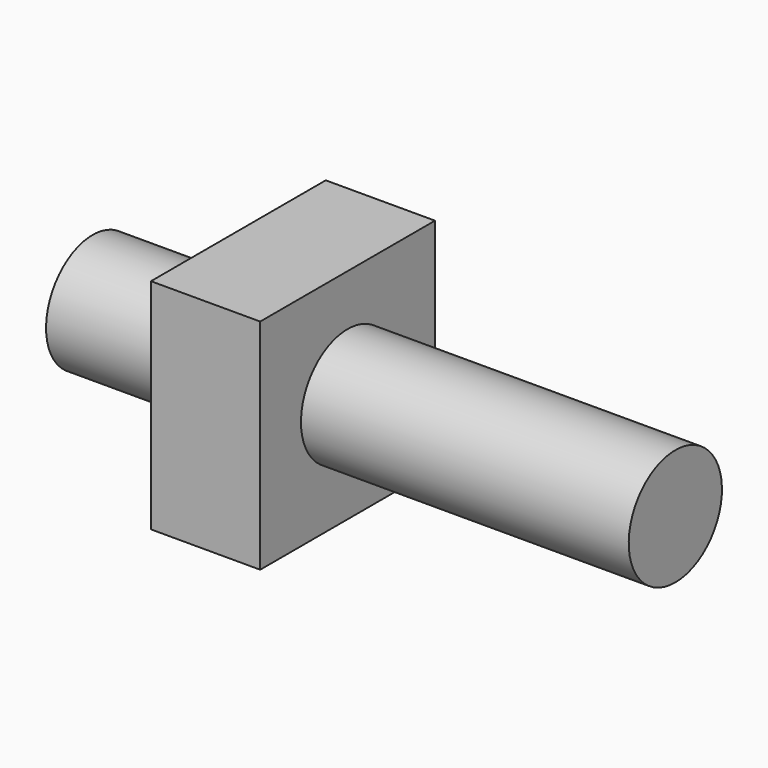
from build123d import *

# Parameters (mm, degrees)
BOX001_W          = 3
BOX001_H          = 6
BOX001_DEPTH      = 6
CYLINDER001_R     = 1.6
CYLINDER001_DEPTH = 16


with BuildPart() as cube001:
    # Box001 → Box001 (new body)
    with BuildSketch(Plane(origin=(15, 0, 0), x_dir=(1, 0, 0), z_dir=(0, 0, 1))):
        with Locations((1.5, 3)):
            Rectangle(BOX001_W, BOX001_H)
    extrude(amount=BOX001_DEPTH)


with BuildPart() as fusion:
    # Cylinder001 → Cylinder001 (new body)
    with BuildSketch(Plane(origin=(11, 3, 3), x_dir=(0, 0, -1), z_dir=(1, 0, 0))):
        Circle(CYLINDER001_R)
    extrude(amount=CYLINDER001_DEPTH)

    # Fusion: union Cube001
    add(cube001.part)


solid = fusion.part
